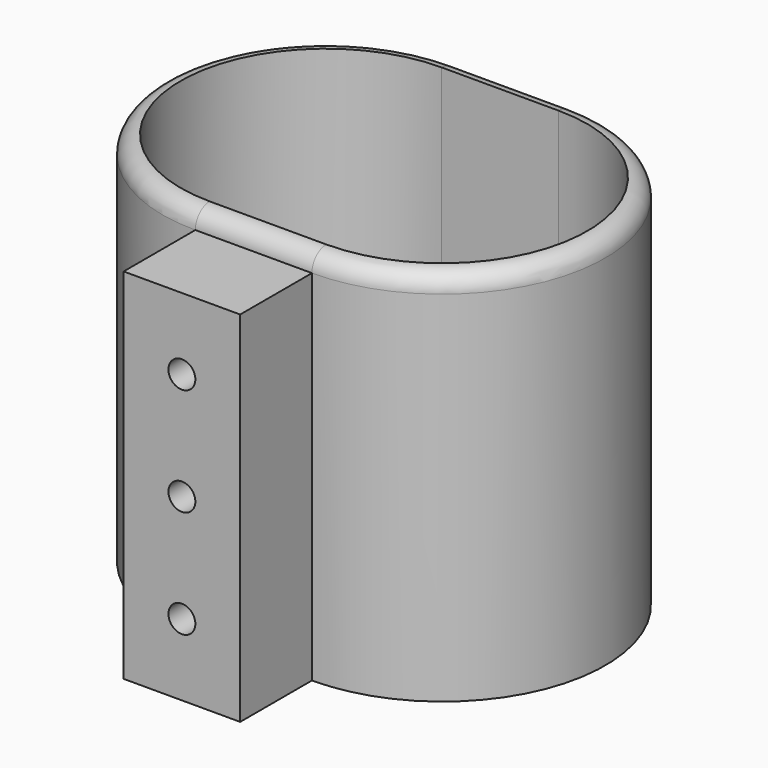
from build123d import *

# Parameters (mm, degrees)
PAD005_DEPTH    = 40
THICKNESS001_T  = 2
POCKET001_DEPTH = 5
SKETCH006_W     = 13
SKETCH006_H     = 40
SKETCH006_R     = 1.5
PAD006_DEPTH    = 10


with BuildPart() as part:
    # Sketch005 → Pad005 (new body)
    with BuildSketch(Plane.XY):
        with BuildLine():
            ThreePointArc((0, 16.175), (-16.175, 0), (0, -16.175))
            Line((0, -16.175), (13, -16.175))
            ThreePointArc((13, -16.175), (29.175, 0), (13, 16.175))
            Line((0, 16.175), (13, 16.175))
        make_face()
    extrude(amount=PAD005_DEPTH)

    # Thickness001
    thickness001_openings = [part.faces().sort_by_distance(p)[0] for p in [
        (6.5, 0, 0),
    ]]
    offset(amount=THICKNESS001_T, openings=thickness001_openings)

    # Thickness001 Face5 → Pocket001 (cut)
    with BuildSketch(Plane(origin=(6.5, 0, 40), x_dir=(0, -1, 0), z_dir=(0, 0, -1))):
        with BuildLine():
            ThreePointArc((16.175, 6.5), (0, 22.675), (-16.175, 6.5))
            Line((-16.175, 6.5), (-16.175, -6.5))
            ThreePointArc((-16.175, -6.5), (0, -22.675), (16.175, -6.5))
            Line((16.175, -6.5), (16.175, 6.5))
        make_face()
    extrude(amount=-POCKET001_DEPTH, mode=Mode.SUBTRACT)

    # Sketch006 (on Face12 of Pocket001) → Pad006 (join)
    with BuildSketch(Plane.XZ.offset(18.175)):
        with Locations((6.5, 20)):
            Rectangle(SKETCH006_W, SKETCH006_H)
        with Locations((6.5, 32)):
            Circle(SKETCH006_R, mode=Mode.SUBTRACT)
        with Locations((6.5, 20)):
            Circle(SKETCH006_R, mode=Mode.SUBTRACT)
        with Locations((6.5, 8)):
            Circle(SKETCH006_R, mode=Mode.SUBTRACT)
    extrude(amount=PAD006_DEPTH)


with BuildPart() as part_1:
    # Body002 placement: moved
    add(part.part.moved(Location((69, 0, 0))))


solid = part_1.part
